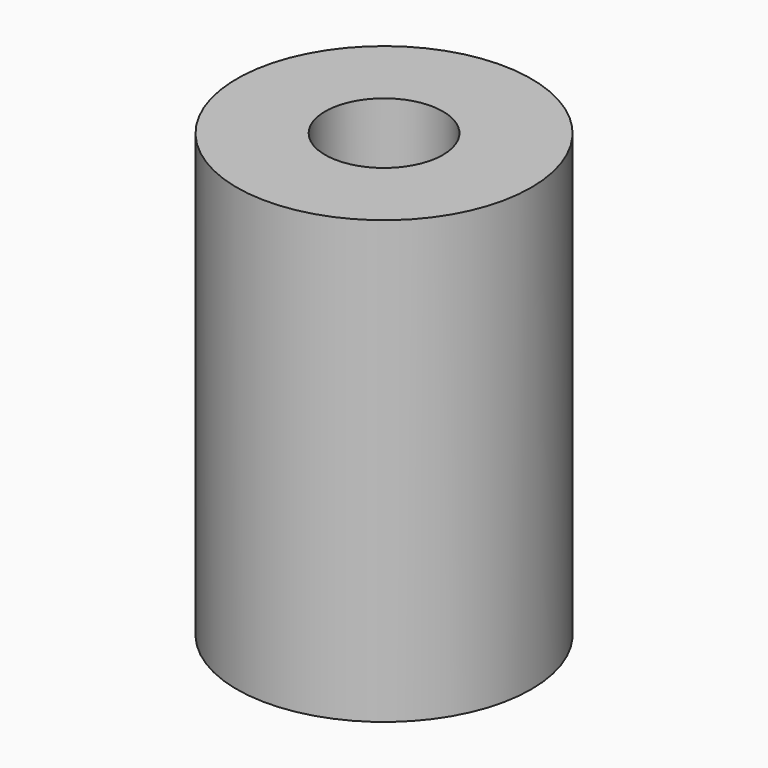
from build123d import *

# Parameters (mm, degrees)
CYLINDER005_R     = 0.4
CYLINDER005_DEPTH = 3
CYLINDER002_R     = 1
CYLINDER002_DEPTH = 3


with BuildPart() as cylinder005:
    # Cylinder005 → Cylinder005 (new body)
    with BuildSketch(Plane(origin=(19, -25.5, -4), x_dir=(1, 0, 0), z_dir=(0, 0, 1))):
        Circle(CYLINDER005_R)
    extrude(amount=CYLINDER005_DEPTH)


with BuildPart() as cut007:
    # Cylinder002 → Cylinder002 (new body)
    with BuildSketch(Plane(origin=(19, -25.5, -4), x_dir=(1, 0, 0), z_dir=(0, 0, 1))):
        Circle(CYLINDER002_R)
    extrude(amount=CYLINDER002_DEPTH)

    # Cut007: cut Cylinder005
    add(cylinder005.part, mode=Mode.SUBTRACT)


solid = cut007.part
